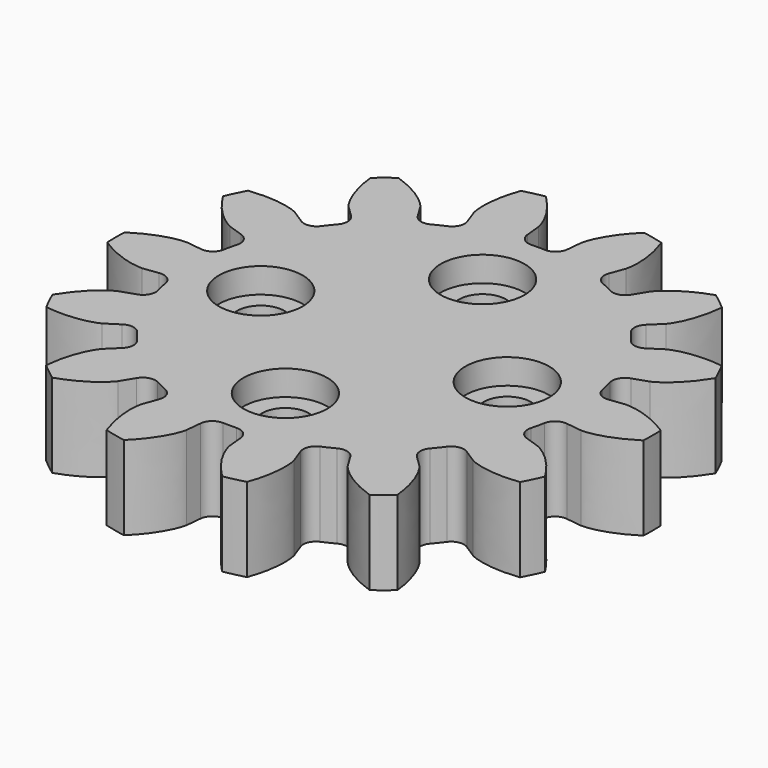
from build123d import *

# Parameters (mm, degrees)
PAD012_DEPTH            = 5
SKETCH010_R             = 1.4
POCKET002_DEPTH         = 5.001
SKETCH011_R             = 2.5
POCKET003_DEPTH         = 2
SKETCH012_R             = 2.5
POCKET004_DEPTH         = 1.5
BODY005_PLACEMENT_ANGLE = 180


with BuildPart() as part:
    # InvoluteGear → Pad012 (new body)
    with BuildSketch(Plane.XY):
        with BuildLine():
            Line((12.1611, -1.554104), (13.081146, -1.6702))
            add(Edge.make_bspline(
                [(13.081146, -1.6702), (13.222866, -1.675254), (13.790574, -1.675498), (14.789934, -1.418437), (15.986899, -0.643298)],
                knots=[0, 0, 0, 0, 0, 1, 1, 1, 1, 1], degree=4))
            ThreePointArc((15.986899, -0.643298), (15.999918, 0.001253), (15.986961, 0.645805))
            add(Edge.make_bspline(
                [(15.986961, 0.645805), (14.789934, 1.418437), (13.790574, 1.675498), (13.222866, 1.675254), (13.081146, 1.6702)],
                knots=[0, 0, 0, 0, 0, 1, 1, 1, 1, 1], degree=4))
            Line((13.081146, 1.6702), (12.1611, 1.554104))
            ThreePointArc((12.1611, 1.554104), (11.605364, 1.68218), (11.295182, 2.160754))
            ThreePointArc((11.295182, 2.160754), (11.211671, 2.558991), (11.114124, 2.954024))
            ThreePointArc((11.114124, 2.954024), (11.185943, 3.519787), (11.631073, 3.876304))
            Line((11.631073, 3.876304), (12.510378, 4.170898))
            add(Edge.make_bspline(
                [(12.510378, 4.170898), (12.640256, 4.227835), (13.15185, 4.473934), (13.940707, 5.139144), (14.682815, 6.356864)],
                knots=[0, 0, 0, 0, 0, 1, 1, 1, 1, 1], degree=4))
            ThreePointArc((14.682815, 6.356864), (14.414885, 6.943233), (14.12355, 7.518333))
            add(Edge.make_bspline(
                [(14.12355, 7.518333), (12.709833, 7.695079), (11.697907, 7.493078), (11.186525, 7.246538), (11.061032, 7.180495)],
                knots=[0, 0, 0, 0, 0, 1, 1, 1, 1, 1], degree=4))
            Line((11.061032, 7.180495), (10.282472, 6.676703))
            ThreePointArc((10.282472, 6.676703), (9.726201, 6.550971), (9.239092, 6.847568))
            ThreePointArc((9.239092, 6.847568), (8.991062, 7.170133), (8.731776, 7.483721))
            ThreePointArc((8.731776, 7.483721), (8.551008, 8.024617), (8.79737, 8.538963))
            Line((8.79737, 8.538963), (9.461776, 9.185899))
            add(Edge.make_bspline(
                [(9.461776, 9.185899), (9.554089, 9.293549), (9.90824, 9.737249), (10.330351, 10.678855), (10.47062, 12.097971)],
                knots=[0, 0, 0, 0, 0, 1, 1, 1, 1, 1], degree=4))
            ThreePointArc((10.47062, 12.097971), (9.974806, 12.510021), (9.462796, 12.901763))
            add(Edge.make_bspline(
                [(9.462796, 12.901763), (8.112394, 12.447617), (7.288325, 11.826561), (6.934555, 11.382557), (6.850146, 11.268604)],
                knots=[0, 0, 0, 0, 0, 1, 1, 1, 1, 1], degree=4))
            Line((6.850146, 11.268604), (6.367275, 10.476899))
            ThreePointArc((6.367275, 10.476899), (5.920645, 10.122261), (5.353086, 10.178137))
            ThreePointArc((5.353086, 10.178137), (4.989663, 10.361142), (4.619994, 10.531176))
            ThreePointArc((4.619994, 10.531176), (4.222441, 10.940073), (4.221239, 11.510375))
            Line((4.221239, 11.510375), (4.539154, 12.38152))
            add(Edge.make_bspline(
                [(4.539154, 12.38152), (4.575617, 12.518562), (4.702182, 13.071982), (4.673944, 14.103487), (4.184589, 15.442927)],
                knots=[0, 0, 0, 0, 0, 1, 1, 1, 1, 1], degree=4))
            ThreePointArc((4.184589, 15.442927), (3.559095, 15.599046), (2.92782, 15.72984))
            add(Edge.make_bspline(
                [(2.92782, 15.72984), (1.908196, 14.734751), (1.435201, 13.817649), (1.309112, 13.26412), (1.282504, 13.124829)],
                knots=[0, 0, 0, 0, 0, 1, 1, 1, 1, 1], degree=4))
            Line((1.282504, 13.124829), (1.19096, 12.202017))
            ThreePointArc((1.19096, 12.202017), (0.942432, 11.688714), (0.406835, 11.492801))
            ThreePointArc((0.406835, 11.492801), (0, 11.5), (-0.406835, 11.492801))
            ThreePointArc((-0.406835, 11.492801), (-0.942432, 11.688714), (-1.19096, 12.202017))
            Line((-1.19096, 12.202017), (-1.282504, 13.124829))
            add(Edge.make_bspline(
                [(-1.282504, 13.124829), (-1.309112, 13.26412), (-1.435201, 13.817649), (-1.908196, 14.734751), (-2.93025, 15.729222)],
                knots=[0, 0, 0, 0, 0, 1, 1, 1, 1, 1], degree=4))
            ThreePointArc((-2.93025, 15.729222), (-3.561538, 15.598488), (-4.187047, 15.44243))
            add(Edge.make_bspline(
                [(-4.187047, 15.44243), (-4.673944, 14.103487), (-4.702182, 13.071982), (-4.575617, 12.518562), (-4.539154, 12.38152)],
                knots=[0, 0, 0, 0, 0, 1, 1, 1, 1, 1], degree=4))
            Line((-4.539154, 12.38152), (-4.221239, 11.510375))
            ThreePointArc((-4.221239, 11.510375), (-4.222441, 10.940073), (-4.619994, 10.531176))
            ThreePointArc((-4.619994, 10.531176), (-4.989663, 10.361142), (-5.353086, 10.178137))
            ThreePointArc((-5.353086, 10.178137), (-5.920645, 10.122261), (-6.367275, 10.476899))
            Line((-6.367275, 10.476899), (-6.850146, 11.268604))
            add(Edge.make_bspline(
                [(-6.850146, 11.268604), (-6.934555, 11.382557), (-7.288325, 11.826561), (-8.112394, 12.447617), (-9.464718, 12.900151)],
                knots=[0, 0, 0, 0, 0, 1, 1, 1, 1, 1], degree=4))
            ThreePointArc((-9.464718, 12.900151), (-9.976765, 12.508459), (-10.472618, 12.096457))
            add(Edge.make_bspline(
                [(-10.472618, 12.096457), (-10.330351, 10.678855), (-9.90824, 9.737249), (-9.554089, 9.293549), (-9.461776, 9.185899)],
                knots=[0, 0, 0, 0, 0, 1, 1, 1, 1, 1], degree=4))
            Line((-9.461776, 9.185899), (-8.79737, 8.538963))
            ThreePointArc((-8.79737, 8.538963), (-8.551008, 8.024617), (-8.731776, 7.483721))
            ThreePointArc((-8.731776, 7.483721), (-8.991062, 7.170133), (-9.239092, 6.847568))
            ThreePointArc((-9.239092, 6.847568), (-9.726201, 6.550971), (-10.282472, 6.676703))
            Line((-10.282472, 6.676703), (-11.061032, 7.180495))
            add(Edge.make_bspline(
                [(-11.061032, 7.180495), (-11.186525, 7.246538), (-11.697907, 7.493078), (-12.709833, 7.695079), (-14.124582, 7.516048)],
                knots=[0, 0, 0, 0, 0, 1, 1, 1, 1, 1], degree=4))
            ThreePointArc((-14.124582, 7.516048), (-14.415972, 6.940976), (-14.683959, 6.354632))
            add(Edge.make_bspline(
                [(-14.683959, 6.354632), (-13.940707, 5.139144), (-13.15185, 4.473934), (-12.640256, 4.227835), (-12.510378, 4.170898)],
                knots=[0, 0, 0, 0, 0, 1, 1, 1, 1, 1], degree=4))
            Line((-12.510378, 4.170898), (-11.631073, 3.876304))
            ThreePointArc((-11.631073, 3.876304), (-11.185943, 3.519787), (-11.114124, 2.954024))
            ThreePointArc((-11.114124, 2.954024), (-11.211671, 2.558991), (-11.295182, 2.160754))
            ThreePointArc((-11.295182, 2.160754), (-11.605364, 1.68218), (-12.1611, 1.554104))
            Line((-12.1611, 1.554104), (-13.081146, 1.6702))
            add(Edge.make_bspline(
                [(-13.081146, 1.6702), (-13.222866, 1.675254), (-13.790574, 1.675498), (-14.789934, 1.418437), (-15.986899, 0.643298)],
                knots=[0, 0, 0, 0, 0, 1, 1, 1, 1, 1], degree=4))
            ThreePointArc((-15.986899, 0.643298), (-15.999918, -0.001253), (-15.986961, -0.645805))
            add(Edge.make_bspline(
                [(-15.986961, -0.645805), (-14.789934, -1.418437), (-13.790574, -1.675498), (-13.222866, -1.675254), (-13.081146, -1.6702)],
                knots=[0, 0, 0, 0, 0, 1, 1, 1, 1, 1], degree=4))
            Line((-13.081146, -1.6702), (-12.1611, -1.554104))
            ThreePointArc((-12.1611, -1.554104), (-11.605364, -1.68218), (-11.295182, -2.160754))
            ThreePointArc((-11.295182, -2.160754), (-11.211671, -2.558991), (-11.114124, -2.954024))
            ThreePointArc((-11.114124, -2.954024), (-11.185943, -3.519787), (-11.631073, -3.876304))
            Line((-11.631073, -3.876304), (-12.510378, -4.170898))
            add(Edge.make_bspline(
                [(-12.510378, -4.170898), (-12.640256, -4.227835), (-13.15185, -4.473934), (-13.940707, -5.139144), (-14.682815, -6.356864)],
                knots=[0, 0, 0, 0, 0, 1, 1, 1, 1, 1], degree=4))
            ThreePointArc((-14.682815, -6.356864), (-14.414885, -6.943233), (-14.12355, -7.518333))
            add(Edge.make_bspline(
                [(-14.12355, -7.518333), (-12.709833, -7.695079), (-11.697907, -7.493078), (-11.186525, -7.246538), (-11.061032, -7.180495)],
                knots=[0, 0, 0, 0, 0, 1, 1, 1, 1, 1], degree=4))
            Line((-11.061032, -7.180495), (-10.282472, -6.676703))
            ThreePointArc((-10.282472, -6.676703), (-9.726201, -6.550971), (-9.239092, -6.847568))
            ThreePointArc((-9.239092, -6.847568), (-8.991062, -7.170133), (-8.731776, -7.483721))
            ThreePointArc((-8.731776, -7.483721), (-8.551008, -8.024617), (-8.79737, -8.538963))
            Line((-8.79737, -8.538963), (-9.461776, -9.185899))
            add(Edge.make_bspline(
                [(-9.461776, -9.185899), (-9.554089, -9.293549), (-9.90824, -9.737249), (-10.330351, -10.678855), (-10.47062, -12.097971)],
                knots=[0, 0, 0, 0, 0, 1, 1, 1, 1, 1], degree=4))
            ThreePointArc((-10.47062, -12.097971), (-9.974806, -12.510021), (-9.462796, -12.901763))
            add(Edge.make_bspline(
                [(-9.462796, -12.901763), (-8.112394, -12.447617), (-7.288325, -11.826561), (-6.934555, -11.382557), (-6.850146, -11.268604)],
                knots=[0, 0, 0, 0, 0, 1, 1, 1, 1, 1], degree=4))
            Line((-6.850146, -11.268604), (-6.367275, -10.476899))
            ThreePointArc((-6.367275, -10.476899), (-5.920645, -10.122261), (-5.353086, -10.178137))
            ThreePointArc((-5.353086, -10.178137), (-4.989663, -10.361142), (-4.619994, -10.531176))
            ThreePointArc((-4.619994, -10.531176), (-4.222441, -10.940073), (-4.221239, -11.510375))
            Line((-4.221239, -11.510375), (-4.539154, -12.38152))
            add(Edge.make_bspline(
                [(-4.539154, -12.38152), (-4.575617, -12.518562), (-4.702182, -13.071982), (-4.673944, -14.103487), (-4.184589, -15.442927)],
                knots=[0, 0, 0, 0, 0, 1, 1, 1, 1, 1], degree=4))
            ThreePointArc((-4.184589, -15.442927), (-3.559095, -15.599046), (-2.92782, -15.72984))
            add(Edge.make_bspline(
                [(-2.92782, -15.72984), (-1.908196, -14.734751), (-1.435201, -13.817649), (-1.309112, -13.26412), (-1.282504, -13.124829)],
                knots=[0, 0, 0, 0, 0, 1, 1, 1, 1, 1], degree=4))
            Line((-1.282504, -13.124829), (-1.19096, -12.202017))
            ThreePointArc((-1.19096, -12.202017), (-0.942432, -11.688714), (-0.406835, -11.492801))
            ThreePointArc((-0.406835, -11.492801), (0, -11.5), (0.406835, -11.492801))
            ThreePointArc((0.406835, -11.492801), (0.942432, -11.688714), (1.19096, -12.202017))
            Line((1.19096, -12.202017), (1.282504, -13.124829))
            add(Edge.make_bspline(
                [(1.282504, -13.124829), (1.309112, -13.26412), (1.435201, -13.817649), (1.908196, -14.734751), (2.93025, -15.729222)],
                knots=[0, 0, 0, 0, 0, 1, 1, 1, 1, 1], degree=4))
            ThreePointArc((2.93025, -15.729222), (3.561538, -15.598488), (4.187047, -15.44243))
            add(Edge.make_bspline(
                [(4.187047, -15.44243), (4.673944, -14.103487), (4.702182, -13.071982), (4.575617, -12.518562), (4.539154, -12.38152)],
                knots=[0, 0, 0, 0, 0, 1, 1, 1, 1, 1], degree=4))
            Line((4.539154, -12.38152), (4.221239, -11.510375))
            ThreePointArc((4.221239, -11.510375), (4.222441, -10.940073), (4.619994, -10.531176))
            ThreePointArc((4.619994, -10.531176), (4.989663, -10.361142), (5.353086, -10.178137))
            ThreePointArc((5.353086, -10.178137), (5.920645, -10.122261), (6.367275, -10.476899))
            Line((6.367275, -10.476899), (6.850146, -11.268604))
            add(Edge.make_bspline(
                [(6.850146, -11.268604), (6.934555, -11.382557), (7.288325, -11.826561), (8.112394, -12.447617), (9.464718, -12.900151)],
                knots=[0, 0, 0, 0, 0, 1, 1, 1, 1, 1], degree=4))
            ThreePointArc((9.464718, -12.900151), (9.976765, -12.508459), (10.472618, -12.096457))
            add(Edge.make_bspline(
                [(10.472618, -12.096457), (10.330351, -10.678855), (9.90824, -9.737249), (9.554089, -9.293549), (9.461776, -9.185899)],
                knots=[0, 0, 0, 0, 0, 1, 1, 1, 1, 1], degree=4))
            Line((9.461776, -9.185899), (8.79737, -8.538963))
            ThreePointArc((8.79737, -8.538963), (8.551008, -8.024617), (8.731776, -7.483721))
            ThreePointArc((8.731776, -7.483721), (8.991062, -7.170133), (9.239092, -6.847568))
            ThreePointArc((9.239092, -6.847568), (9.726201, -6.550971), (10.282472, -6.676703))
            Line((10.282472, -6.676703), (11.061032, -7.180495))
            add(Edge.make_bspline(
                [(11.061032, -7.180495), (11.186525, -7.246538), (11.697907, -7.493078), (12.709833, -7.695079), (14.124582, -7.516048)],
                knots=[0, 0, 0, 0, 0, 1, 1, 1, 1, 1], degree=4))
            ThreePointArc((14.124582, -7.516048), (14.415972, -6.940976), (14.683959, -6.354632))
            add(Edge.make_bspline(
                [(14.683959, -6.354632), (13.940707, -5.139144), (13.15185, -4.473934), (12.640256, -4.227835), (12.510378, -4.170898)],
                knots=[0, 0, 0, 0, 0, 1, 1, 1, 1, 1], degree=4))
            Line((12.510378, -4.170898), (11.631073, -3.876304))
            ThreePointArc((11.631073, -3.876304), (11.185943, -3.519787), (11.114124, -2.954024))
            ThreePointArc((11.114124, -2.954024), (11.211671, -2.558991), (11.295182, -2.160754))
            ThreePointArc((11.295182, -2.160754), (11.605364, -1.68218), (12.1611, -1.554104))
        make_face()
    extrude(amount=PAD012_DEPTH)

    # Sketch010 (on Face114 of Pad012) → Pocket002 (cut, through all)
    with BuildSketch(Plane.XY.offset(5)):
        with Locations((0, 7.35)):
            Circle(SKETCH010_R)
        with Locations((-7.35, 0)):
            Circle(SKETCH010_R)
        with Locations((0, -7.35)):
            Circle(SKETCH010_R)
        with Locations((7.35, 0)):
            Circle(SKETCH010_R)
    extrude(amount=-POCKET002_DEPTH, mode=Mode.SUBTRACT)

    # Sketch011 (on Face5 of Pocket002) → Pocket003 (cut)
    with BuildSketch(Plane.XY.offset(5)):
        Circle(SKETCH011_R)
    extrude(amount=-POCKET003_DEPTH, mode=Mode.SUBTRACT)

    # Sketch012 (on Face4 of Pocket003) → Pocket004 (cut)
    with BuildSketch(Plane(origin=(0, 0, 0), x_dir=(1, 0, 0), z_dir=(0, 0, -1))):
        with Locations((0, 7.35)):
            Circle(SKETCH012_R)
        with Locations((-7.35, 0)):
            Circle(SKETCH012_R)
        with Locations((0, -7.35)):
            Circle(SKETCH012_R)
        with Locations((7.35, 0)):
            Circle(SKETCH012_R)
    extrude(amount=-POCKET004_DEPTH, mode=Mode.SUBTRACT)


with BuildPart() as part_1:
    # Body005 placement: moved
    add(part.part.moved(Location((45, 7, 9))).rotate(Axis((45, 7, 9), (1, 0, 0)), BODY005_PLACEMENT_ANGLE))


solid = part_1.part
